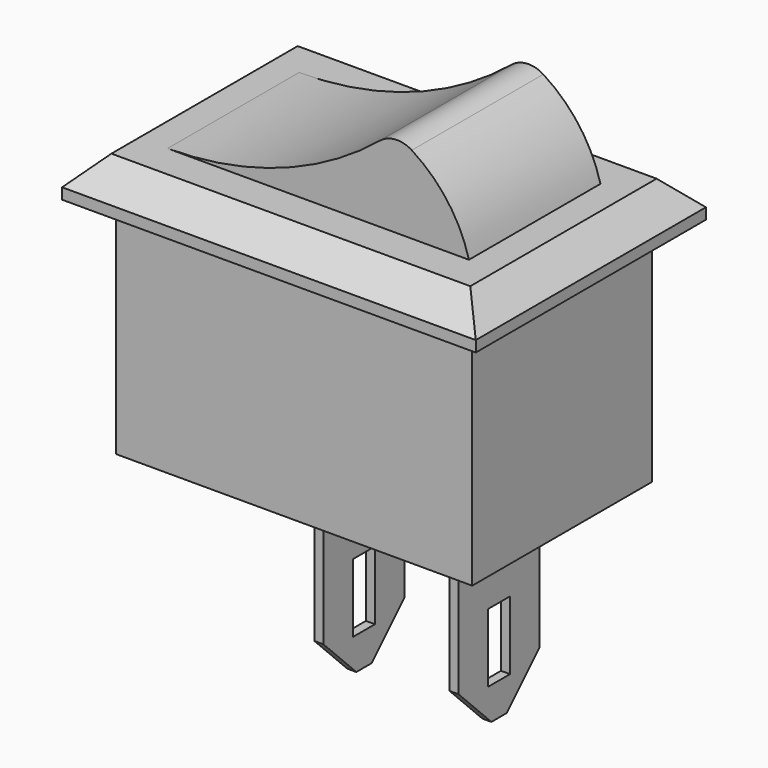
from build123d import *

# Parameters (mm, degrees)
SKETCH_W        = 13
SKETCH_H        = 8.2
PAD_DEPTH       = 8.3
SKETCH001_W     = 15.1
SKETCH001_H     = 10.5
PAD001_DEPTH    = 1.4
CHAMFER_SIZE    = 1
PAD002_DEPTH    = 3
FILLET_R        = 1
SKETCH003_W     = 0.33
SKETCH003_H     = 3.7
PAD003_DEPTH    = 6.65
CHAMFER001_SIZE = 1.5
SKETCH004_W     = 1
SKETCH004_H     = 2.5
POCKET_DEPTH    = 11.751


with BuildPart() as part:
    # Sketch → Pad (new body)
    with BuildSketch(Plane.XY):
        Rectangle(SKETCH_W, SKETCH_H)
    extrude(amount=-PAD_DEPTH)

    # Sketch001 → Pad001 (join)
    with BuildSketch(Plane.XY):
        Rectangle(SKETCH001_W, SKETCH001_H)
    extrude(amount=PAD001_DEPTH)

    # Chamfer
    chamfer_edges = [part.edges().sort_by_distance(p)[0] for p in [
        (-7.55, 0, 1.4),
        (0, 5.25, 1.4),
        (7.55, 0, 1.4),
        (0, -5.25, 1.4),
    ]]
    chamfer(chamfer_edges, length=CHAMFER_SIZE)

    # Sketch002 → Pad002 (join, symmetric)
    with BuildSketch(Plane.XZ):
        with BuildLine():
            Line((-5.5, 1.4), (5.5, 1.4))
            ThreePointArc((5.5, 1.4), (4.48879, 3.316002), (2.739315, 4.593869))
            ThreePointArc((-5.5, 1.4), (-1.081654, 2.2264), (2.739315, 4.593869))
        make_face()
    extrude(amount=PAD002_DEPTH, both=True)

    # Fillet
    fillet_edges = [part.edges().sort_by_distance(p)[0] for p in [
        (2.739315, 0, 4.593869),
    ]]
    fillet(fillet_edges, radius=FILLET_R)

    # Sketch003 (on DatumPlane) → Pad003 (join)
    with BuildSketch(Plane.XY.offset(-8.3)):
        with Locations((4.035, 0)):
            Rectangle(SKETCH003_W, SKETCH003_H)
        with Locations((-0.895, 0)):
            Rectangle(SKETCH003_W, SKETCH003_H)
    extrude(amount=-PAD003_DEPTH)

    # Chamfer001
    chamfer001_edges = [part.edges().sort_by_distance(p)[0] for p in [
        (4.035, -1.85, -14.95),
        (4.035, 1.85, -14.95),
        (-0.895, 1.85, -14.95),
        (-0.895, -1.85, -14.95),
    ]]
    chamfer(chamfer001_edges, length=CHAMFER001_SIZE)

    # Sketch004 (on Face5 of Chamfer001) → Pocket (cut, through all)
    with BuildSketch(Plane.YZ.offset(4.2)):
        with Locations((0, -12.51)):
            Rectangle(SKETCH004_W, SKETCH004_H)
    extrude(amount=-POCKET_DEPTH, mode=Mode.SUBTRACT)


solid = part.part
